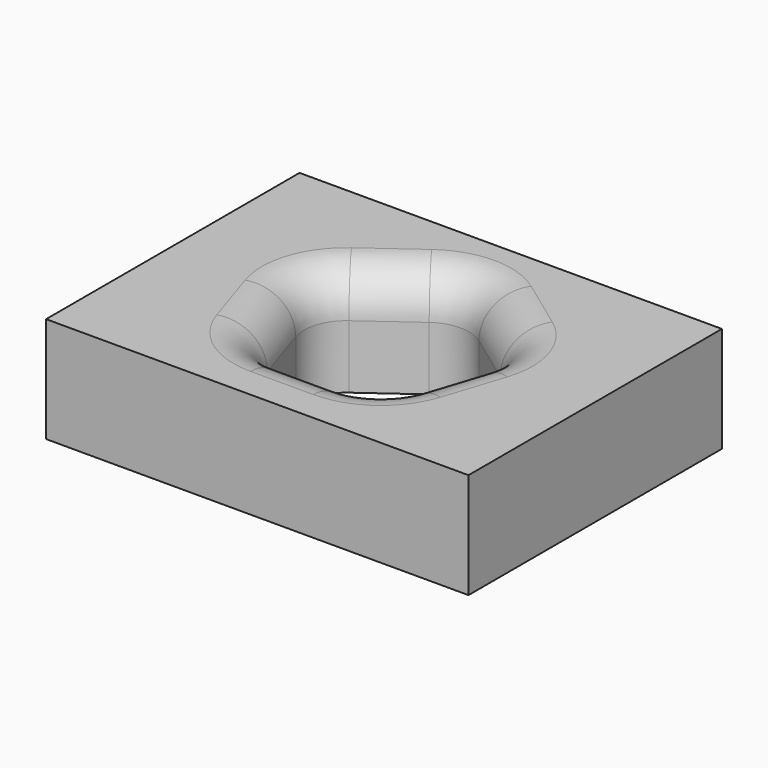
from build123d import *

# Parameters (mm, degrees)
F0_W     = 101.6
F0_H     = 76.2
F1_DEPTH = 25.4
F2_R     = 10.16


with BuildPart() as f1:
    # F0 (on Top) → F1 (new body)
    with BuildSketch(Plane.XY):
        Rectangle(F0_W, F0_H)
        Polygon((-24.156836, 7.849032), (0, 25.4), (24.156836, 7.849032), (14.929745, -20.549032), (-14.929745, -20.549032), align=None, mode=Mode.SUBTRACT)
    extrude(amount=F1_DEPTH)

    # F2
    f2_edges = [f1.edges().sort_by_distance(p)[0] for p in [
        (0, -20.549032, 25.4),
        (-19.54329, -6.35, 25.4),
        (-12.078418, 16.624516, 25.4),
        (12.078418, 16.624516, 25.4),
        (19.54329, -6.35, 25.4),
        (-14.929745, -20.549032, 12.7),
        (14.929745, -20.549032, 12.7),
        (24.156836, 7.849032, 12.7),
        (0, 25.4, 12.7),
        (-24.156836, 7.849032, 12.7),
    ]]
    fillet(f2_edges, radius=F2_R)


solid = f1.part
